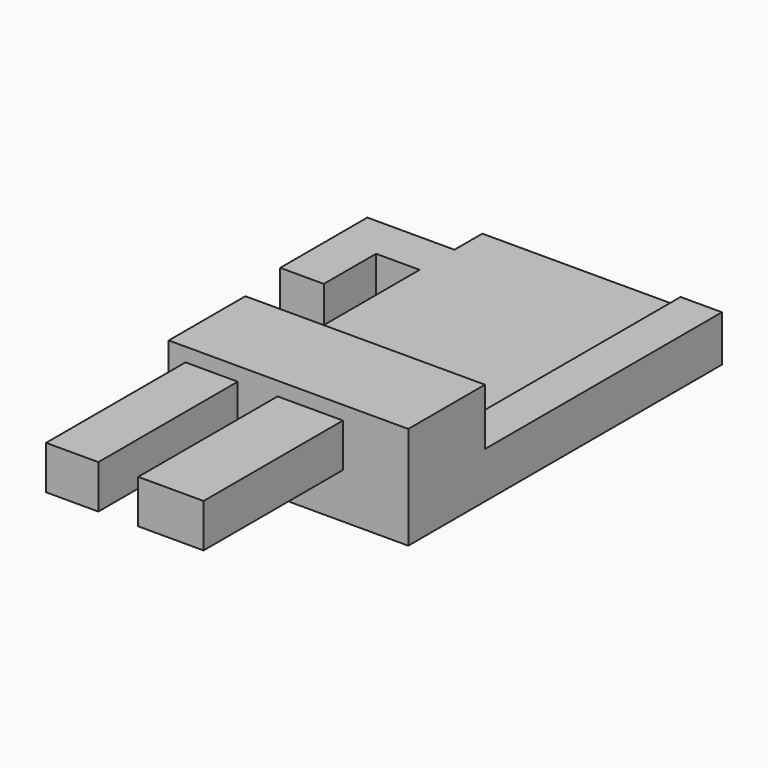
from build123d import *

# Parameters (mm, degrees)
F0_W      = 55
F0_H      = 90
F1_DEPTH  = 1.6
F2_W      = 55
F2_H      = 22
F3_DEPTH  = 22
F4_W      = 15
F4_H      = 10
F4_W_2    = 12
F5_DEPTH  = 40
F6_DEPTH  = 7
F7_W      = 9.4927671924
F7_H      = 68
F8_DEPTH  = 2
F9_W      = 10
F9_H      = 8.6
F10_DEPTH = 20
F11_W     = 10
F11_H     = 8.6
F12_DEPTH = 15


with BuildPart() as f1:
    # F0 (on Top) → F1 (new body)
    with BuildSketch(Plane.XY):
        with Locations((-1.4253398404, 6.9053554087)):
            Rectangle(F0_W, F0_H)
    extrude(amount=F1_DEPTH)

    # F2 (on face) → F3 (join)
    with BuildSketch(Plane.XY.offset(1.6)):
        with Locations((-1.4253398404, -27.0946445913)):
            Rectangle(F2_W, F2_H)
    extrude(amount=F3_DEPTH)

    # F4 (on face) → F5 (join)
    with BuildSketch(Plane.XZ.offset(38.0946445913)):
        with Locations((3.5746601596, 15.4229834428)):
            Rectangle(F4_W, F4_H)
        with Locations((-19.0744694758, 15.4229834428)):
            Rectangle(F4_W_2, F4_H)
    extrude(amount=F5_DEPTH)

    # F6 (add): a face of the model
    f6_faces = [f1.faces().sort_by_distance(p)[0] for p in [
        (-1.4253398404, 17.9053554087, 1.6),
    ]]
    extrude(f6_faces, amount=F6_DEPTH)

    # F7 (on face) → F8 (join)
    with BuildSketch(Plane.XY.offset(8.6)):
        with Locations((21.3282765634, 17.9053554087)):
            Rectangle(F7_W, F7_H)
    extrude(amount=F8_DEPTH)

    # F9 (on face) → F10 (join)
    with BuildSketch(Plane(origin=(-28.9253398404, 0, 0), x_dir=(0, -1, 0), z_dir=(-1, 0, 0))):
        with Locations((-38.9053554087, 4.3)):
            Rectangle(F9_W, F9_H)
    extrude(amount=F10_DEPTH)

    # F11 (on face) → F12 (join)
    with BuildSketch(Plane.XZ.offset(-33.9053554087)):
        with Locations((-43.9253398404, 4.3)):
            Rectangle(F11_W, F11_H)
    extrude(amount=F12_DEPTH)


solid = f1.part
